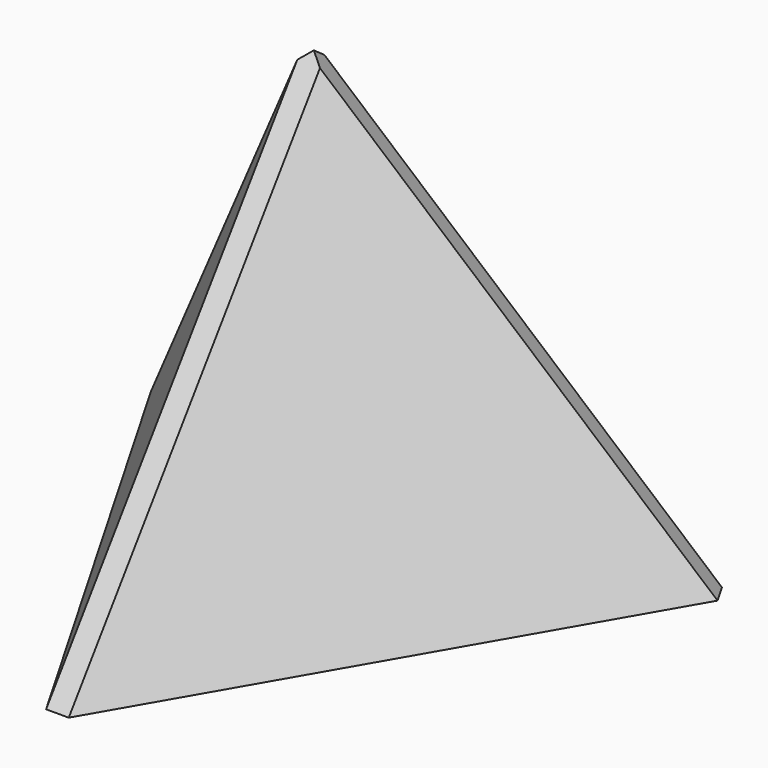
from build123d import *

# Parameters (mm, degrees)
F1_DEPTH = 24.495
F1_TAPER = 19.4657
F2_SIZE  = 1


with BuildPart() as f1:
    # F0 (on Top) → F1 (new body)
    with BuildSketch(Plane.XY):
        Polygon((15, 8.6602540378), (-15, 8.6602540378), (0, -17.3205080757), align=None)
    extrude(amount=F1_DEPTH, taper=F1_TAPER)

    # F2 (call 1 of 3: OpenCascade refuses the feature's edges together)
    f2_edges = [f1.edges().sort_by_distance(p)[0] for p in [
        (0, -8.662872, 12.247501),
    ]]
    chamfer(f2_edges, length=F2_SIZE)

    # F2#2 (call 2 of 3)
    f2_2_edges = [f1.edges().sort_by_distance(p)[0] for p in [
        (7.502267, 4.331436, 12.247501),
    ]]
    chamfer(f2_2_edges, length=F2_SIZE)

    # F2#3 (call 3 of 3)
    f2_3_edges = [f1.edges().sort_by_distance(p)[0] for p in [
        (-7.502267, 4.331436, 12.247501),
    ]]
    chamfer(f2_3_edges, length=F2_SIZE)


solid = f1.part
